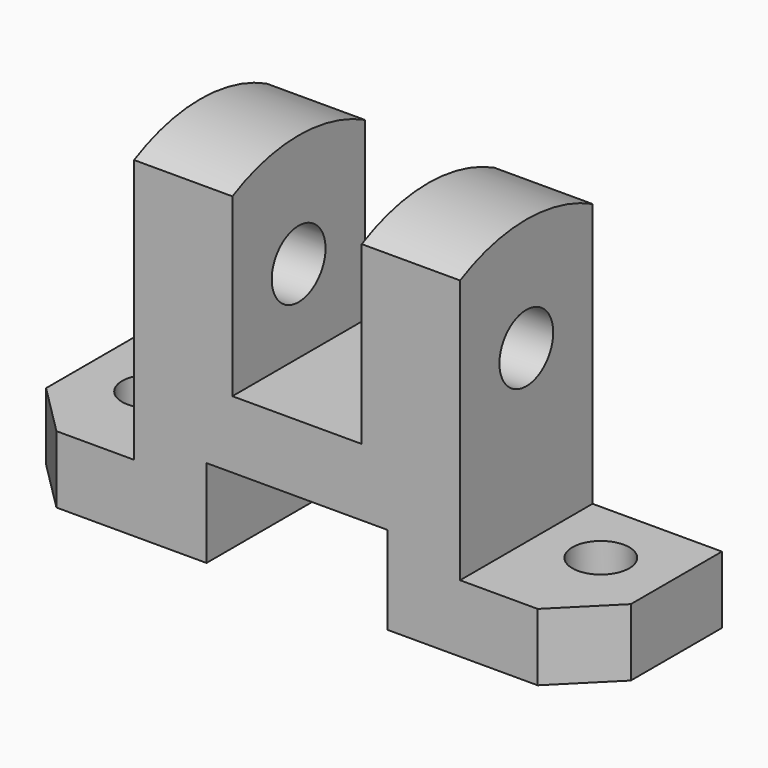
from build123d import *

# Parameters (mm, degrees)
F1_DEPTH  = 32
F2_R      = 5.5
F3_DEPTH  = 13.001
F4_R      = 5.5
F5_DEPTH  = 13.001
F7_DEPTH  = 19
F9_DEPTH  = 19
F10_R     = 6.5
F11_DEPTH = 88.001


with BuildPart() as f1:
    # F0 (on Front) → F1 (new body)
    with BuildSketch(Plane.XZ):
        Polygon((0, 13), (0, 0), (39, 0), (39, 17), (74, 17), (74, 0), (113, 0), (113, 13), (88, 13), (88, 64), (69, 64), (69, 30), (44, 30), (44, 64), (25, 64), (25, 13), align=None)
    extrude(amount=F1_DEPTH)

    # F2 (on face) → F3 (cut, through all)
    with BuildSketch(Plane.XY.offset(13)):
        Polygon((0, -22), (0, -32), (10, -32), align=None)
        with Locations((13, -13)):
            Circle(F2_R)
    extrude(amount=-F3_DEPTH, mode=Mode.SUBTRACT)

    # F4 (on face) → F5 (cut, through all)
    with BuildSketch(Plane.XY.offset(13)):
        with Locations((100, -13)):
            Circle(F4_R)
        Polygon((103, -32), (113, -32), (113, -22), align=None)
    extrude(amount=-F5_DEPTH, mode=Mode.SUBTRACT)

    # F6 (on face) → F7 (join)
    with BuildSketch(Plane.YZ.offset(44)):
        with BuildLine():
            Line((-32, 64), (0, 64))
            ThreePointArc((0, 64), (-16, 67.871235), (-32, 64))
        make_face()
    extrude(amount=-F7_DEPTH)

    # F8 (on face) → F9 (join)
    with BuildSketch(Plane.YZ.offset(88)):
        with BuildLine():
            Line((-32, 64), (0, 64))
            ThreePointArc((0, 64), (-16, 67.871235), (-32, 64))
        make_face()
    extrude(amount=-F9_DEPTH)

    # F10 (on face) → F11 (cut, through all)
    with BuildSketch(Plane.YZ.offset(88)):
        with Locations((-16, 46)):
            Circle(F10_R)
    extrude(amount=-F11_DEPTH, mode=Mode.SUBTRACT)


solid = f1.part
